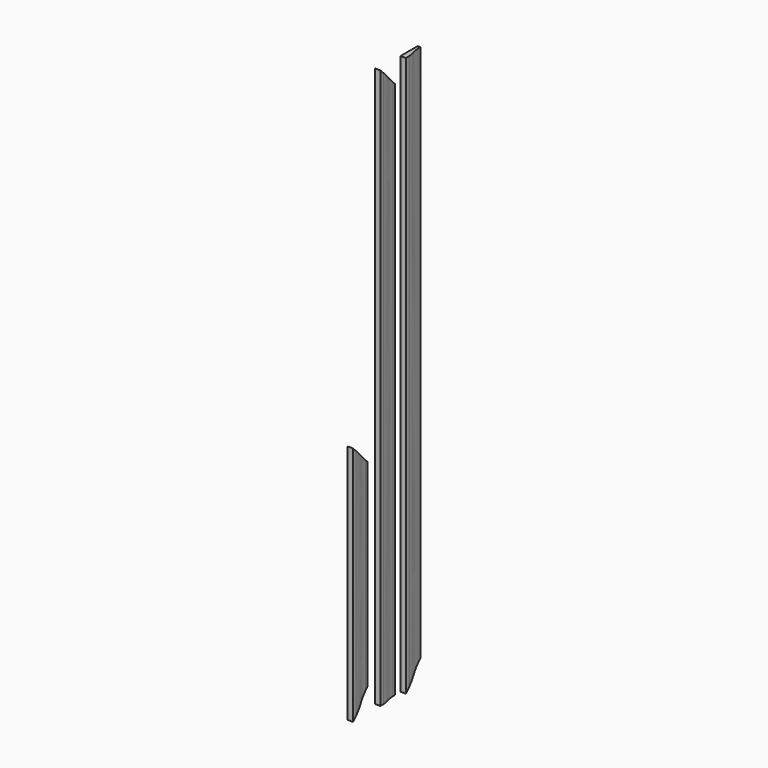
from build123d import *

# Parameters (mm, degrees)
F1_DEPTH = 2080
F2_DEPTH = 2080
F3_DEPTH = 895
F7_DEPTH = 25
F8_DEPTH = 25
F9_DEPTH = 25


with BuildPart() as f1:
    # F0 (on Top) → F1 (new body)
    with BuildSketch(Plane.XY):
        with BuildLine():
            Line((0, 80), (0, 0))
            Line((0, 0), (20, 0))
            Line((20, 0), (20, 15))
            add(Edge.make_bspline(
                [(10, 70), (12.289603, 39.272137), (17.018117, 47.544636), (20, 15)],
                knots=[0, 0, 0, 0, 55.901699, 55.901699, 55.901699, 55.901699], degree=3))
            Line((10, 70), (10, 80))
            Line((10, 80), (0, 80))
        make_face()
    extrude(amount=F1_DEPTH)

    # F5 (on face) → F8 (cut)
    with BuildSketch(Plane(origin=(0, 0, 0), x_dir=(0, -1, 0), z_dir=(-1, 0, 0))):
        Polygon((-80, 2000), (0, 2080), (-80, 2080), align=None)
    extrude(amount=-F8_DEPTH, mode=Mode.SUBTRACT)


with BuildPart() as f2:
    # F0 (on Top) → F2 (new body)
    with BuildSketch(Plane.XY):
        with BuildLine():
            Line((9.120889, 186.802052), (9.120889, 106.802052))
            Line((9.120889, 106.802052), (29.120889, 106.802052))
            Line((29.120889, 106.802052), (29.120889, 121.802052))
            add(Edge.make_bspline(
                [(19.120889, 176.802052), (21.410493, 146.074189), (26.139006, 154.346688), (29.120889, 121.802052)],
                knots=[0, 0, 0, 0, 55.901699, 55.901699, 55.901699, 55.901699], degree=3))
            Line((19.120889, 176.802052), (19.120889, 186.802052))
            Line((19.120889, 186.802052), (9.120889, 186.802052))
        make_face()
    extrude(amount=F2_DEPTH)

    # F4 (on face) → F7 (cut)
    with BuildSketch(Plane(origin=(9.120889, 0, 0), x_dir=(0, -1, 0), z_dir=(-1, 0, 0))):
        Polygon((-186.802052, 0), (-106.802052, 0), (-186.802052, 80), align=None)
    extrude(amount=-F7_DEPTH, mode=Mode.SUBTRACT)


with BuildPart() as f3:
    # F0 (on Top) → F3 (new body)
    with BuildSketch(Plane.XY):
        with BuildLine():
            Line((0.34191, -47.640972), (0.34191, -127.640972))
            Line((0.34191, -127.640972), (20.34191, -127.640972))
            Line((20.34191, -127.640972), (20.34191, -112.640972))
            add(Edge.make_bspline(
                [(10.34191, -57.640972), (12.631514, -88.368835), (17.360027, -80.096336), (20.34191, -112.640972)],
                knots=[0, 0, 0, 0, 55.901699, 55.901699, 55.901699, 55.901699], degree=3))
            Line((10.34191, -57.640972), (10.34191, -47.640972))
            Line((10.34191, -47.640972), (0.34191, -47.640972))
        make_face()
    extrude(amount=F3_DEPTH)

    # F6 (on face) → F9 (cut)
    with BuildSketch(Plane(origin=(0.34191, 0, 0), x_dir=(0, -1, 0), z_dir=(-1, 0, 0))):
        Polygon((47.640972, 815), (127.640972, 895), (47.640972, 895), align=None)
        Polygon((47.640972, 0), (127.640972, 0), (47.640972, 80), align=None)
    extrude(amount=-F9_DEPTH, mode=Mode.SUBTRACT)


solid = Compound([f1.part, f2.part, f3.part])
